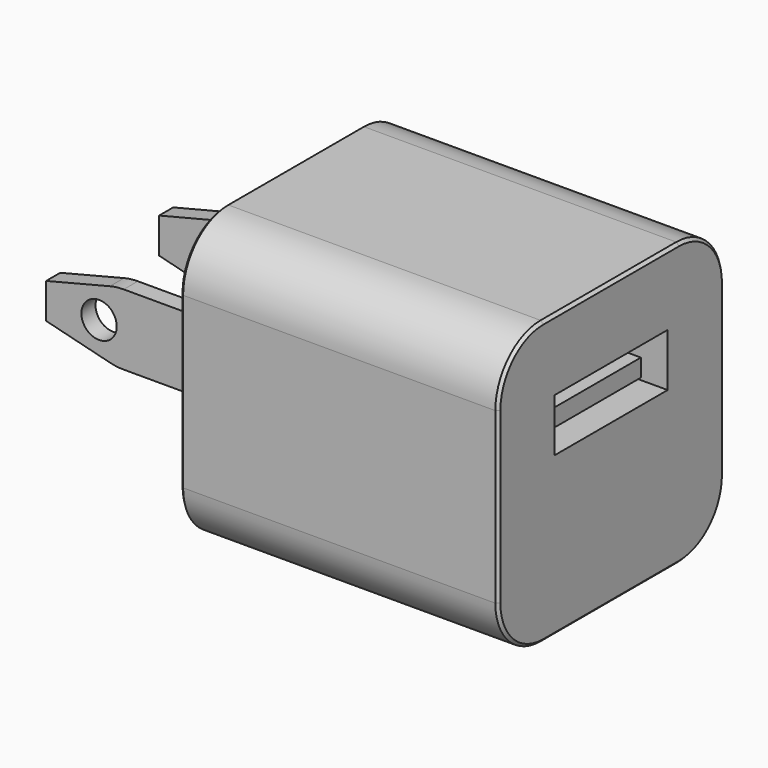
from build123d import *

# Parameters (mm, degrees)
F0_W      = 28.575
F0_H      = 25.4
F1_DEPTH  = 25.4
F2_R      = 5.08
F3_W      = 12.7
F3_H      = 4.7625
F4_DEPTH  = 12.7
F5_W      = 11.1125
F5_H      = 1.5875
F6_DEPTH  = 10.922
F7_W      = 1.5875
F7_H      = 6.35
F8_DEPTH  = 9.525
F9_W      = 6.35
F9_H      = 3.1623
F10_DEPTH = 1.5875
F11_R     = 1.5875
F12_DEPTH = 1.5875
F13_R     = 5.08
F14_W     = 1.5875
F14_H     = 6.35
F15_DEPTH = 9.525
F16_W     = 6.35
F16_H     = 3.175
F17_DEPTH = 1.5875
F18_R     = 1.5875
F19_DEPTH = 1.5875
F20_R     = 5.08
F21_SIZE  = 0.254
F22_SIZE  = 0.254


with BuildPart() as f1:
    # F0 (on Top) → F1 (new body)
    with BuildSketch(Plane.XY):
        with Locations((14.2875, -12.7)):
            Rectangle(F0_W, F0_H)
    extrude(amount=F1_DEPTH)

    # F2
    f2_edges = [f1.edges().sort_by_distance(p)[0] for p in [
        (14.2875, -25.4, 25.4),
        (14.2875, 0, 25.4),
        (14.2875, -25.4, 0),
        (14.2875, 0, 0),
    ]]
    fillet(f2_edges, radius=F2_R)

    # F3 (on face) → F4 (cut)
    with BuildSketch(Plane.YZ.offset(28.575)):
        with Locations((-12.7, 16.66875)):
            Rectangle(F3_W, F3_H)
    extrude(amount=-F4_DEPTH, mode=Mode.SUBTRACT)

    # F5 (on face) → F6 (join)
    with BuildSketch(Plane.YZ.offset(15.875)):
        with Locations((-12.69365, 15.8069642857)):
            Rectangle(F5_W, F5_H)
    extrude(amount=F6_DEPTH)

    # F7 (on face) → F8 (join)
    with BuildSketch(Plane(origin=(0, 0, 0), x_dir=(0, -1, 0), z_dir=(-1, 0, 0))):
        with Locations((19.84375, 12.7)):
            Rectangle(F7_W, F7_H)
    extrude(amount=F8_DEPTH)

    # F9 (on face) → F10 (join)
    with BuildSketch(Plane.XZ.offset(20.6375)):
        Polygon((-15.875, 11.1125), (-9.525, 9.525), (-9.525, 11.1125), align=None)
        with Locations((-12.7, 12.69365)):
            Rectangle(F9_W, F9_H)
        Polygon((-15.875, 14.2748), (-9.525, 14.2748), (-9.525, 15.875), align=None)
    extrude(amount=-F10_DEPTH)

    # F11 (on face) → F12 (cut)
    with BuildSketch(Plane.XZ.offset(20.6375)):
        with Locations((-11.1124364053, 12.7375950676)):
            Circle(F11_R)
    extrude(amount=-F12_DEPTH, mode=Mode.SUBTRACT)

    # F13
    f13_edges = [f1.edges().sort_by_distance(p)[0] for p in [
        (-9.525, -19.84375, 15.875),
        (-9.525, -19.84375, 9.525),
    ]]
    fillet(f13_edges, radius=F13_R)

    # F14 (on face) → F15 (join)
    with BuildSketch(Plane(origin=(0, 0, 0), x_dir=(0, -1, 0), z_dir=(-1, 0, 0))):
        with Locations((7.14375, 12.7)):
            Rectangle(F14_W, F14_H)
    extrude(amount=F15_DEPTH)

    # F16 (on face) → F17 (join)
    with BuildSketch(Plane.XZ.offset(7.9375)):
        with Locations((-12.7, 12.7)):
            Rectangle(F16_W, F16_H)
        Polygon((-9.525, 14.2875), (-9.525, 15.875), (-15.875, 14.2875), align=None)
        Polygon((-9.525, 9.525), (-9.525, 11.1125), (-15.875, 11.1125), align=None)
    extrude(amount=-F17_DEPTH)

    # F18 (on face) → F19 (cut)
    with BuildSketch(Plane.XZ.offset(7.9375)):
        with Locations((-11.1125, 12.7)):
            Circle(F18_R)
    extrude(amount=-F19_DEPTH, mode=Mode.SUBTRACT)

    # F20
    f20_edges = [f1.edges().sort_by_distance(p)[0] for p in [
        (-9.525, -7.14375, 15.875),
        (-9.525, -7.14375, 9.525),
    ]]
    fillet(f20_edges, radius=F20_R)

    # F21
    f21_edges = [f1.edges().sort_by_distance(p)[0] for p in [
        (28.575, -12.7, 25.4),
    ]]
    chamfer(f21_edges, length=F21_SIZE)

    # F22
    f22_edges = [f1.edges().sort_by_distance(p)[0] for p in [
        (0, -12.7, 25.4),
    ]]
    chamfer(f22_edges, length=F22_SIZE)


solid = f1.part
